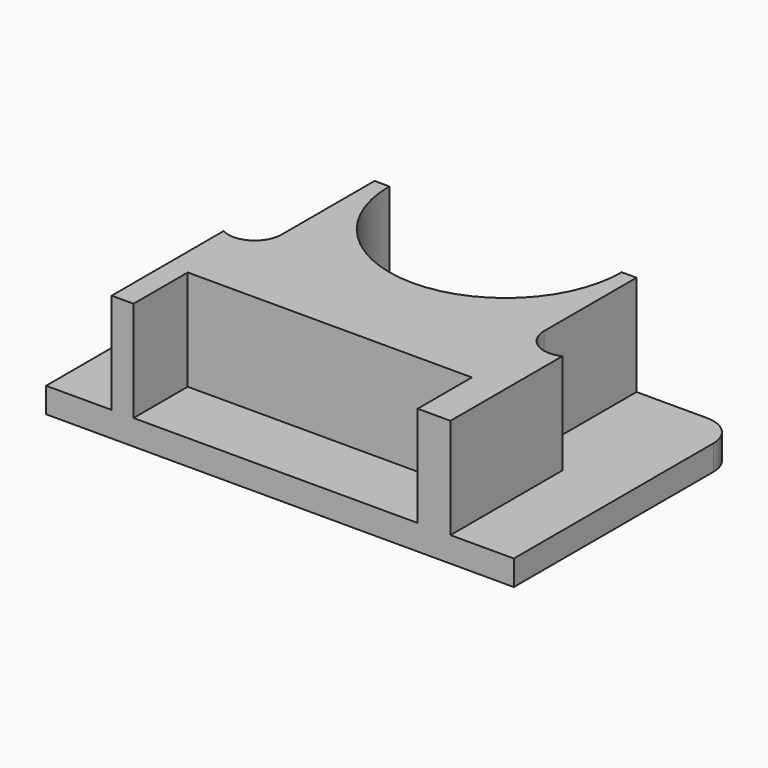
from build123d import *

# Parameters (mm, degrees)
F0_W     = 118.0837154388
F0_H     = 70.6295147538
F1_DEPTH = 6.35
F2_R     = 7.62
F4_DEPTH = 25.4
F6_DEPTH = 50.8


with BuildPart() as f1:
    # F0 (on Top) → F1 (new body)
    with BuildSketch(Plane.XY):
        Rectangle(F0_W, F0_H)
    extrude(amount=F1_DEPTH)

    # F2
    f2_edges = [f1.edges().sort_by_distance(p)[0] for p in [
        (-59.041858, 35.314757, 3.175),
        (59.041858, 35.314757, 3.175),
    ]]
    fillet(f2_edges, radius=F2_R)

    # F3 (on face) → F4 (join)
    with BuildSketch(Plane.XY.offset(6.35)):
        with BuildLine():
            Line((-42.4880945322, 0), (-42.4880945322, -35.3147573769))
            Line((-42.4880945322, -35.3147573769), (-36.9701385498, -35.3147573769))
            Line((-36.9701385498, -35.3147573769), (-36.9701385498, -18.2091724128))
            Line((-36.9701385498, -18.2091724128), (34.7629673779, -18.2091724128))
            Line((34.7629673779, -18.2091724128), (34.7629673779, -35.3147573769))
            Line((34.7629673779, -35.3147573769), (43.0398620665, -35.3147573769))
            Line((43.0398620665, -35.3147573769), (43.0398620665, 0))
            ThreePointArc((43.0398620665, 0), (36.6044160593, 0.4599269685), (33.5122679292, 6.1225339714))
            Line((33.5122679292, 6.1225339714), (33.5122679292, 35.3147573769))
            Line((33.5122679292, 35.3147573769), (-32.6155844176, 35.3147573769))
            Line((-32.6155844176, 35.3147573769), (-32.6155844176, 5.9529215684))
            ThreePointArc((-32.6155844176, 5.9529215684), (-35.8708933771, 0.1887275405), (-42.4880945322, 0))
        make_face()
    extrude(amount=F4_DEPTH)

    # F5 (on face) → F6 (cut)
    with BuildSketch(Plane.XY.offset(31.75)):
        with BuildLine():
            ThreePointArc((-28.8878973408, 35.3147573769), (0.4483417558, 5.9785182804), (29.7845808524, 35.3147573769))
            Line((29.7845808524, 35.3147573769), (-28.8878973408, 35.3147573769))
        make_face()
    extrude(amount=-F6_DEPTH, mode=Mode.SUBTRACT)


solid = f1.part
